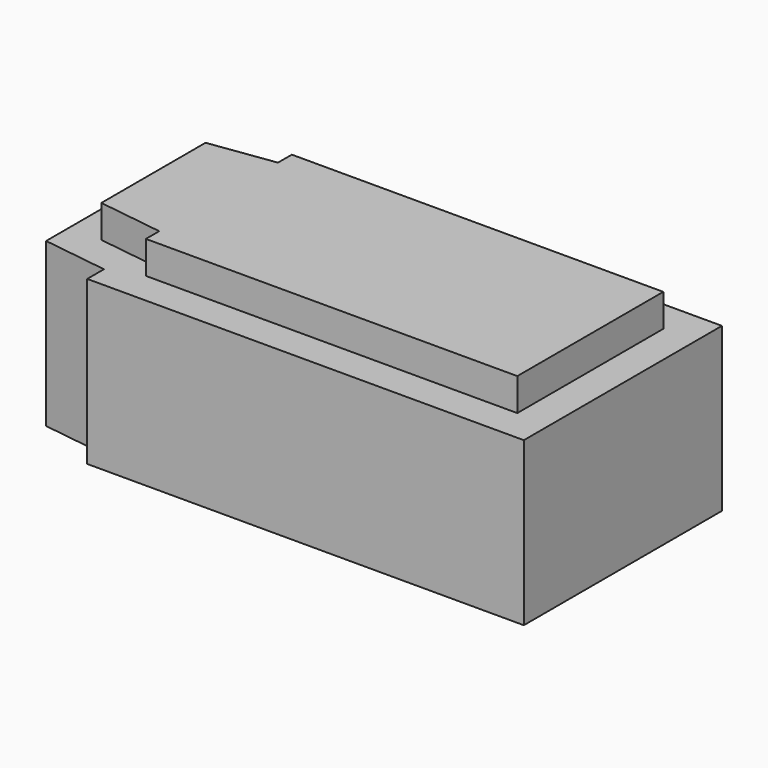
from build123d import *

# Parameters (mm, degrees)
F1_START = 15
F1_DEPTH = 15
F2_DEPTH = 25


with BuildPart() as f1:
    # F0 (on Top) → F1 (new body)
    with BuildSketch(Plane.XY.offset(F1_START)):
        Polygon((28.5, -14), (28.5, 14), (-28.5, 14), (-28.5, 11.3388504833), (-28.5, -11.4388540387), (-28.5, -14), align=None)
        Polygon((-28.5, -11.4388540387), (-28.5, 11.3388504833), (-33.5, 10.6412195601), (-33.5, -10.740224272), align=None)
        Polygon((-33.5, -10.740224272), (-33.5, 10.6412195601), (-38.5, 9.9435886368), (-38.5, -10.0415945053), align=None)
    extrude(amount=F1_DEPTH)

    # F0 (on Top) → F2 (join)
    with BuildSketch(Plane.XY):
        Polygon((-38.5, 9.9435886368), (-33.5, 10.6412195601), (-33.5, 15.6896538624), (-43.5, 14.2943920159), (-43.5, -14.3915371656), (-33.5, -15.788796699), (-33.5, -10.740224272), (-38.5, -10.0415945053), align=None)
        Polygon((-28.5, 14), (28.5, 14), (28.5, -14), (-28.5, -14), (-28.5, -11.4388540387), (-33.5, -10.740224272), (-33.5, -15.788796699), (-33.5, -19), (33.5, -19), (33.5, 19), (-33.5, 19), (-33.5, 15.6896538624), (-33.5, 10.6412195601), (-28.5, 11.3388504833), align=None)
    extrude(amount=F2_DEPTH)


solid = f1.part
